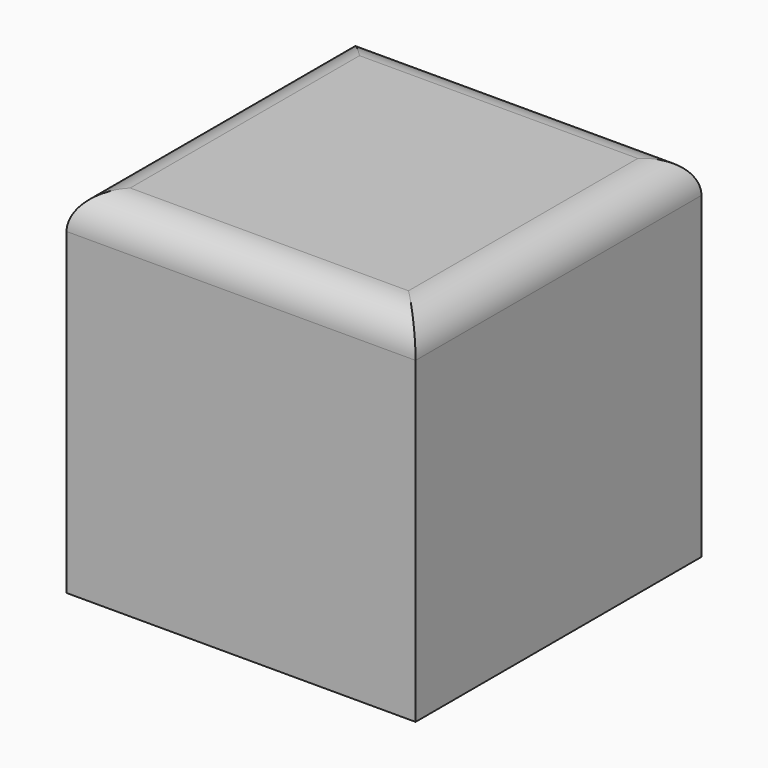
from build123d import *

# Parameters (mm, degrees)
F0_W     = 98.692965
F0_H     = 101.042532
F1_DEPTH = 100
F2_R     = 10
F3_T     = -5


with BuildPart() as f1:
    # F0 (on Top) → F1 (new body)
    with BuildSketch(Plane.XY):
        with Locations((-14.294499, -1.221735)):
            Rectangle(F0_W, F0_H)
    extrude(amount=F1_DEPTH)

    # F2
    f2_edges = [f1.edges().sort_by_distance(p)[0] for p in [
        (-14.2945, -51.743001, 100),
        (35.051983, -1.221735, 100),
        (-14.2945, 49.299531, 100),
        (-63.640982, -1.221735, 100),
    ]]
    fillet(f2_edges, radius=F2_R)

    # F3
    f3_openings = [f1.faces().sort_by_distance(p)[0] for p in [
        (-14.2945, -1.221735, 0),
    ]]
    offset(amount=F3_T, openings=f3_openings)


solid = f1.part
